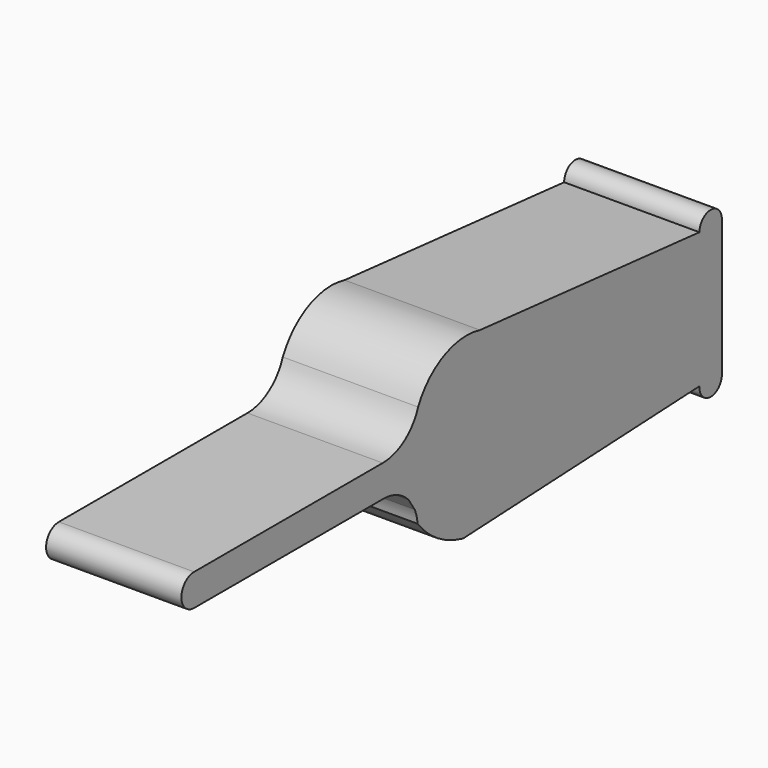
from build123d import *

# Parameters (mm, degrees)
F1_DEPTH = 25.4


with BuildPart() as f1:
    # F0 (on Right) → F1 (new body)
    with BuildSketch(Plane.YZ):
        with BuildLine():
            ThreePointArc((-4.119145, 15.96546), (-7.332279, 11.705098), (-12.417024, 10.086369))
            Line((-12.417024, 10.086369), (-56.676082, 10.086369))
            ThreePointArc((-56.676082, 10.086369), (-59.662269, 7.100182), (-56.676082, 4.113995))
            Line((-56.676082, 4.113995), (-12.270784, 4.113995))
            ThreePointArc((-12.270784, 4.113995), (-9.036695, 3.43599), (-6.347227, 1.516151))
            Line((-6.347227, 1.516151), (-4.912173, -0.668664))
            ThreePointArc((-4.912173, -0.668664), (-4.469328, -1.944054), (-4.245792, -3.275505))
            ThreePointArc((-4.245792, -3.275505), (0.490421, -7.605602), (6.421509, -10.055836))
            Line((6.421509, -10.055836), (61.894204, -7.428423))
            Line((61.894204, -7.428423), (61.894204, 18.010989))
            Line((61.894204, 18.010989), (10.385968, 22.780115))
            ThreePointArc((10.385968, 22.780115), (1.913733, 21.968894), (-4.119145, 15.96546))
        make_face()
        with BuildLine():
            Line((61.894204, -7.81715), (61.894204, -7.428423))
            ThreePointArc((61.894204, -7.428423), (61.887035, -7.622786), (61.894204, -7.81715))
        make_face()
        with BuildLine():
            ThreePointArc((67.163721, 17.988732), (64.540138, 20.64577), (61.894204, 18.010989))
            Line((61.894204, 18.010989), (61.894204, -7.428423))
            Line((61.894204, -7.428423), (61.894204, -7.81715))
            ThreePointArc((61.894204, -7.81715), (64.622626, -10.259336), (67.163721, -7.622786))
            Line((67.163721, -7.622786), (67.163721, 17.988732))
        make_face()
    extrude(amount=F1_DEPTH)


solid = f1.part
